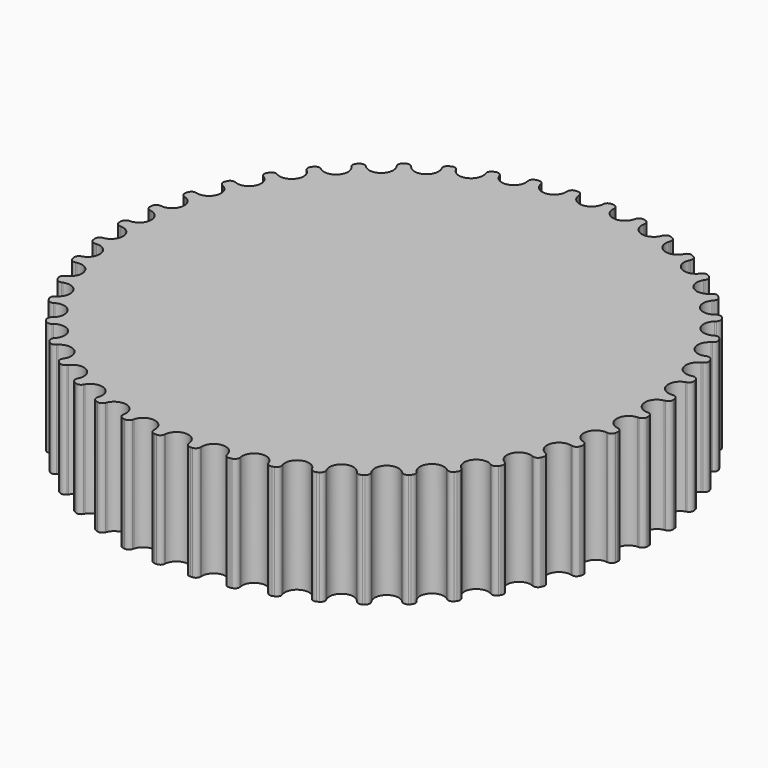
from build123d import *

# Parameters (mm, degrees)
F1_DEPTH = 25


with BuildPart() as f1:
    # F0 (on Top) → F1 (new body)
    with BuildSketch(Plane.XY):
        with BuildLine():
            ThreePointArc((-2.643572, 56.867883), (-3.006463, 57.53147), (-3.725851, 57.764966))
            ThreePointArc((-3.725851, 57.764966), (-3.950212, 57.750057), (-4.174514, 57.734276))
            ThreePointArc((-4.174514, 57.734276), (-4.855407, 57.404999), (-5.124559, 56.698179))
            Line((-5.124559, 56.698179), (-5.120517, 56.417841))
            ThreePointArc((-5.120517, 56.417841), (-7.391262, 53.775424), (-10.290717, 55.707213))
            Line((-10.290717, 55.707213), (-10.362459, 55.978246))
            ThreePointArc((-10.362459, 55.978246), (-10.812329, 56.586239), (-11.55681, 56.719603))
            ThreePointArc((-11.55681, 56.719603), (-11.777051, 56.674282), (-11.997115, 56.628107))
            ThreePointArc((-11.997115, 56.628107), (-12.626829, 56.209182), (-12.79723, 55.472295))
            Line((-12.79723, 55.472295), (-12.755053, 55.195118))
            ThreePointArc((-12.755053, 55.195118), (-14.644839, 52.268113), (-17.780333, 53.787101))
            Line((-17.780333, 53.787101), (-17.888313, 54.045841))
            ThreePointArc((-17.888313, 54.045841), (-18.41678, 54.586913), (-19.172487, 54.617662))
            ThreePointArc((-19.172487, 54.617662), (-19.384506, 54.542773), (-19.596233, 54.467062))
            ThreePointArc((-19.596233, 54.467062), (-20.163038, 53.966293), (-20.231513, 53.213067))
            Line((-20.231513, 53.213067), (-20.151986, 52.944215))
            ThreePointArc((-20.151986, 52.944215), (-21.62561, 49.787147), (-24.938735, 50.865036))
            Line((-24.938735, 50.865036), (-25.080941, 51.106663))
            ThreePointArc((-25.080941, 51.106663), (-25.678163, 51.570737), (-26.431018, 51.498296))
            ThreePointArc((-26.431018, 51.498296), (-26.630865, 51.395236), (-26.83031, 51.2914))
            ThreePointArc((-26.83031, 51.2914), (-27.323648, 50.718115), (-27.28892, 49.962581))
            Line((-27.28892, 49.962581), (-27.173525, 49.707061))
            ThreePointArc((-27.173525, 49.707061), (-28.203536, 46.37874), (-31.632576, 46.995453))
            Line((-31.632576, 46.995453), (-31.806359, 47.215465))
            ThreePointArc((-31.806359, 47.215465), (-32.461209, 47.593895), (-33.197188, 47.419615))
            ThreePointArc((-33.197188, 47.419615), (-33.38114, 47.290302), (-33.564589, 47.160275))
            ThreePointArc((-33.564589, 47.160275), (-33.97527, 46.525154), (-33.837987, 45.781386))
            Line((-33.837987, 45.781386), (-33.688874, 45.543959))
            ThreePointArc((-33.688874, 45.543959), (-34.256085, 42.106385), (-37.737162, 42.250433))
            Line((-37.737162, 42.250433), (-37.939284, 42.444733))
            ThreePointArc((-37.939284, 42.444733), (-38.639565, 42.730468), (-39.344958, 42.457597))
            ThreePointArc((-39.344958, 42.457597), (-39.509589, 42.30444), (-39.673623, 42.150644))
            ThreePointArc((-39.673623, 42.150644), (-39.993997, 41.465518), (-39.756716, 40.74737))
            Line((-39.756716, 40.74737), (-39.576662, 40.532459))
            ThreePointArc((-39.576662, 40.532459), (-39.670507, 37.049667), (-43.138776, 36.718367))
            Line((-43.138776, 36.718367), (-43.365473, 36.883335))
            ThreePointArc((-43.365473, 36.883335), (-44.098139, 37.071054), (-44.759805, 36.704673))
            ThreePointArc((-44.759805, 36.704673), (-44.902048, 36.530526), (-45.043613, 36.355827))
            ThreePointArc((-45.043613, 36.355827), (-45.267711, 35.633457), (-44.934853, 34.954308))
            Line((-44.934853, 34.954308), (-44.727212, 34.765916))
            ThreePointArc((-44.727212, 34.765916), (-44.345943, 31.302785), (-47.736796, 30.502308))
            Line((-47.736796, 30.502308), (-47.983845, 30.634871))
            ThreePointArc((-47.983845, 30.634871), (-48.735248, 30.721077), (-49.340863, 30.268011))
            ThreePointArc((-49.340863, 30.268011), (-49.458067, 30.076117), (-49.574526, 29.883769))
            ThreePointArc((-49.574526, 29.883769), (-49.698174, 29.137612), (-49.275938, 28.510113))
            Line((-49.275938, 28.510113), (-49.044579, 28.35175))
            ThreePointArc((-49.044579, 28.35175), (-48.195298, 24.97279), (-51.44557, 23.718048))
            Line((-51.44557, 23.718048), (-51.708368, 23.815736))
            ThreePointArc((-51.708368, 23.815736), (-52.464511, 23.798824), (-53.002793, 23.267514))
            ThreePointArc((-53.002793, 23.267514), (-53.092776, 23.061447), (-53.181958, 22.855033))
            ThreePointArc((-53.181958, 22.855033), (-53.202853, 22.098989), (-52.699106, 21.534829))
            Line((-52.699106, 21.534829), (-52.448338, 21.409444))
            ThreePointArc((-52.448338, 21.409444), (-51.146865, 18.1776), (-54.19601, 16.491966))
            Line((-54.19601, 16.491966), (-54.469663, 16.55296))
            ThreePointArc((-54.469663, 16.55296), (-55.21646, 16.433244), (-55.677381, 15.833586))
            ThreePointArc((-55.677381, 15.833586), (-55.738467, 15.617186), (-55.798712, 15.400551))
            ThreePointArc((-55.798712, 15.400551), (-55.716464, 14.648704), (-55.140589, 14.158392))
            Line((-55.140589, 14.158392), (-54.875083, 14.068321))
            ThreePointArc((-54.875083, 14.068321), (-53.145663, 11.043796), (-55.936881, 8.95867))
            Line((-55.936881, 8.95867), (-56.21629, 8.981833))
            ThreePointArc((-56.21629, 8.981833), (-56.93983, 8.761543), (-57.314805, 8.104709))
            ThreePointArc((-57.314805, 8.104709), (-57.345856, 7.882006), (-57.376041, 7.659185))
            ThreePointArc((-57.376041, 7.659185), (-57.192183, 6.925541), (-56.554907, 6.518211))
            Line((-56.554907, 6.518211), (-56.27961, 6.465132))
            ThreePointArc((-56.27961, 6.465132), (-54.154458, 3.704266), (-56.635754, 1.258491))
            Line((-56.635754, 1.258491), (-56.915715, 1.243392))
            ThreePointArc((-56.915715, 1.243392), (-57.60252, 0.926632), (-57.884563, 0.224856))
            ThreePointArc((-57.884563, 0.224856), (-57.885, 0), (-57.884563, -0.224856))
            ThreePointArc((-57.884563, -0.224856), (-57.60252, -0.926632), (-56.915715, -1.243392))
            Line((-56.915715, -1.243392), (-56.635754, -1.258491))
            ThreePointArc((-56.635754, -1.258491), (-54.154458, -3.704266), (-56.27961, -6.465132))
            Line((-56.27961, -6.465132), (-56.554907, -6.518211))
            ThreePointArc((-56.554907, -6.518211), (-57.192183, -6.925541), (-57.376041, -7.659185))
            ThreePointArc((-57.376041, -7.659185), (-57.345856, -7.882006), (-57.314805, -8.104709))
            ThreePointArc((-57.314805, -8.104709), (-56.93983, -8.761543), (-56.21629, -8.981833))
            Line((-56.21629, -8.981833), (-55.936881, -8.95867))
            ThreePointArc((-55.936881, -8.95867), (-53.145663, -11.043796), (-54.875083, -14.068321))
            Line((-54.875083, -14.068321), (-55.140589, -14.158392))
            ThreePointArc((-55.140589, -14.158392), (-55.716464, -14.648704), (-55.798712, -15.400551))
            ThreePointArc((-55.798712, -15.400551), (-55.738467, -15.617186), (-55.677381, -15.833586))
            ThreePointArc((-55.677381, -15.833586), (-55.21646, -16.433244), (-54.469663, -16.55296))
            Line((-54.469663, -16.55296), (-54.19601, -16.491966))
            ThreePointArc((-54.19601, -16.491966), (-51.146865, -18.1776), (-52.448338, -21.409444))
            Line((-52.448338, -21.409444), (-52.699106, -21.534829))
            ThreePointArc((-52.699106, -21.534829), (-53.202853, -22.098989), (-53.181958, -22.855033))
            ThreePointArc((-53.181958, -22.855033), (-53.092776, -23.061447), (-53.002793, -23.267514))
            ThreePointArc((-53.002793, -23.267514), (-52.464511, -23.798824), (-51.708368, -23.815736))
            Line((-51.708368, -23.815736), (-51.44557, -23.718048))
            ThreePointArc((-51.44557, -23.718048), (-48.195298, -24.97279), (-49.044579, -28.35175))
            Line((-49.044579, -28.35175), (-49.275938, -28.510113))
            ThreePointArc((-49.275938, -28.510113), (-49.698174, -29.137612), (-49.574526, -29.883769))
            ThreePointArc((-49.574526, -29.883769), (-49.458067, -30.076117), (-49.340863, -30.268011))
            ThreePointArc((-49.340863, -30.268011), (-48.735248, -30.721077), (-47.983845, -30.634871))
            Line((-47.983845, -30.634871), (-47.736796, -30.502308))
            ThreePointArc((-47.736796, -30.502308), (-44.345943, -31.302785), (-44.727212, -34.765916))
            Line((-44.727212, -34.765916), (-44.934853, -34.954308))
            ThreePointArc((-44.934853, -34.954308), (-45.267711, -35.633457), (-45.043613, -36.355827))
            ThreePointArc((-45.043613, -36.355827), (-44.902048, -36.530526), (-44.759805, -36.704673))
            ThreePointArc((-44.759805, -36.704673), (-44.098139, -37.071054), (-43.365473, -36.883335))
            Line((-43.365473, -36.883335), (-43.138776, -36.718367))
            ThreePointArc((-43.138776, -36.718367), (-39.670507, -37.049667), (-39.576662, -40.532459))
            Line((-39.576662, -40.532459), (-39.756716, -40.74737))
            ThreePointArc((-39.756716, -40.74737), (-39.993997, -41.465518), (-39.673623, -42.150644))
            ThreePointArc((-39.673623, -42.150644), (-39.509589, -42.30444), (-39.344958, -42.457597))
            ThreePointArc((-39.344958, -42.457597), (-38.639565, -42.730468), (-37.939284, -42.444733))
            Line((-37.939284, -42.444733), (-37.737162, -42.250433))
            ThreePointArc((-37.737162, -42.250433), (-34.256085, -42.106385), (-33.688874, -45.543959))
            Line((-33.688874, -45.543959), (-33.837987, -45.781386))
            ThreePointArc((-33.837987, -45.781386), (-33.97527, -46.525154), (-33.564589, -47.160275))
            ThreePointArc((-33.564589, -47.160275), (-33.38114, -47.290302), (-33.197188, -47.419615))
            ThreePointArc((-33.197188, -47.419615), (-32.461209, -47.593895), (-31.806359, -47.215465))
            Line((-31.806359, -47.215465), (-31.632576, -46.995453))
            ThreePointArc((-31.632576, -46.995453), (-28.203536, -46.37874), (-27.173525, -49.707061))
            Line((-27.173525, -49.707061), (-27.28892, -49.962581))
            ThreePointArc((-27.28892, -49.962581), (-27.323648, -50.718115), (-26.83031, -51.2914))
            ThreePointArc((-26.83031, -51.2914), (-26.630865, -51.395236), (-26.431018, -51.498296))
            ThreePointArc((-26.431018, -51.498296), (-25.678163, -51.570737), (-25.080941, -51.106663))
            Line((-25.080941, -51.106663), (-24.938735, -50.865036))
            ThreePointArc((-24.938735, -50.865036), (-21.62561, -49.787147), (-20.151986, -52.944215))
            Line((-20.151986, -52.944215), (-20.231513, -53.213067))
            ThreePointArc((-20.231513, -53.213067), (-20.163038, -53.966293), (-19.596233, -54.467062))
            ThreePointArc((-19.596233, -54.467062), (-19.384506, -54.542773), (-19.172487, -54.617662))
            ThreePointArc((-19.172487, -54.617662), (-18.41678, -54.586913), (-17.888313, -54.045841))
            Line((-17.888313, -54.045841), (-17.780333, -53.787101))
            ThreePointArc((-17.780333, -53.787101), (-14.644839, -52.268113), (-12.755053, -55.195118))
            Line((-12.755053, -55.195118), (-12.79723, -55.472295))
            ThreePointArc((-12.79723, -55.472295), (-12.626829, -56.209182), (-11.997115, -56.628107))
            ThreePointArc((-11.997115, -56.628107), (-11.777051, -56.674282), (-11.55681, -56.719603))
            ThreePointArc((-11.55681, -56.719603), (-10.812329, -56.586239), (-10.362459, -55.978246))
            Line((-10.362459, -55.978246), (-10.290717, -55.707213))
            ThreePointArc((-10.290717, -55.707213), (-7.391262, -53.775424), (-5.120517, -56.417841))
            Line((-5.120517, -56.417841), (-5.124559, -56.698179))
            ThreePointArc((-5.124559, -56.698179), (-4.855407, -57.404999), (-4.174514, -57.734276))
            ThreePointArc((-4.174514, -57.734276), (-3.950212, -57.750057), (-3.725851, -57.764966))
            ThreePointArc((-3.725851, -57.764966), (-3.006463, -57.53147), (-2.643572, -56.867883))
            Line((-2.643572, -56.867883), (-2.609404, -56.589605))
            ThreePointArc((-2.609404, -56.589605), (0, -54.281), (2.609404, -56.589605))
            Line((2.609404, -56.589605), (2.643572, -56.867883))
            ThreePointArc((2.643572, -56.867883), (3.006463, -57.53147), (3.725851, -57.764966))
            ThreePointArc((3.725851, -57.764966), (3.950212, -57.750057), (4.174514, -57.734276))
            ThreePointArc((4.174514, -57.734276), (4.855407, -57.404999), (5.124559, -56.698179))
            Line((5.124559, -56.698179), (5.120517, -56.417841))
            ThreePointArc((5.120517, -56.417841), (7.391262, -53.775424), (10.290717, -55.707213))
            Line((10.290717, -55.707213), (10.362459, -55.978246))
            ThreePointArc((10.362459, -55.978246), (10.812329, -56.586239), (11.55681, -56.719603))
            ThreePointArc((11.55681, -56.719603), (11.777051, -56.674282), (11.997115, -56.628107))
            ThreePointArc((11.997115, -56.628107), (12.626829, -56.209182), (12.79723, -55.472295))
            Line((12.79723, -55.472295), (12.755053, -55.195118))
            ThreePointArc((12.755053, -55.195118), (14.644839, -52.268113), (17.780333, -53.787101))
            Line((17.780333, -53.787101), (17.888313, -54.045841))
            ThreePointArc((17.888313, -54.045841), (18.41678, -54.586913), (19.172487, -54.617662))
            ThreePointArc((19.172487, -54.617662), (19.384506, -54.542773), (19.596233, -54.467062))
            ThreePointArc((19.596233, -54.467062), (20.163038, -53.966293), (20.231513, -53.213067))
            Line((20.231513, -53.213067), (20.151986, -52.944215))
            ThreePointArc((20.151986, -52.944215), (21.62561, -49.787147), (24.938735, -50.865036))
            Line((24.938735, -50.865036), (25.080941, -51.106663))
            ThreePointArc((25.080941, -51.106663), (25.678163, -51.570737), (26.431018, -51.498296))
            ThreePointArc((26.431018, -51.498296), (26.630865, -51.395236), (26.83031, -51.2914))
            ThreePointArc((26.83031, -51.2914), (27.323648, -50.718115), (27.28892, -49.962581))
            Line((27.28892, -49.962581), (27.173525, -49.707061))
            ThreePointArc((27.173525, -49.707061), (28.203536, -46.37874), (31.632576, -46.995453))
            Line((31.632576, -46.995453), (31.806359, -47.215465))
            ThreePointArc((31.806359, -47.215465), (32.461209, -47.593895), (33.197188, -47.419615))
            ThreePointArc((33.197188, -47.419615), (33.38114, -47.290302), (33.564589, -47.160275))
            ThreePointArc((33.564589, -47.160275), (33.97527, -46.525154), (33.837987, -45.781386))
            Line((33.837987, -45.781386), (33.688874, -45.543959))
            ThreePointArc((33.688874, -45.543959), (34.256085, -42.106385), (37.737162, -42.250433))
            Line((37.737162, -42.250433), (37.939284, -42.444733))
            ThreePointArc((37.939284, -42.444733), (38.639565, -42.730468), (39.344958, -42.457597))
            ThreePointArc((39.344958, -42.457597), (39.509589, -42.30444), (39.673623, -42.150644))
            ThreePointArc((39.673623, -42.150644), (39.993997, -41.465518), (39.756716, -40.74737))
            Line((39.756716, -40.74737), (39.576662, -40.532459))
            ThreePointArc((39.576662, -40.532459), (39.670507, -37.049667), (43.138776, -36.718367))
            Line((43.138776, -36.718367), (43.365473, -36.883335))
            ThreePointArc((43.365473, -36.883335), (44.098139, -37.071054), (44.759805, -36.704673))
            ThreePointArc((44.759805, -36.704673), (44.902048, -36.530526), (45.043613, -36.355827))
            ThreePointArc((45.043613, -36.355827), (45.267711, -35.633457), (44.934853, -34.954308))
            Line((44.934853, -34.954308), (44.727212, -34.765916))
            ThreePointArc((44.727212, -34.765916), (44.345943, -31.302785), (47.736796, -30.502308))
            Line((47.736796, -30.502308), (47.983845, -30.634871))
            ThreePointArc((47.983845, -30.634871), (48.735248, -30.721077), (49.340863, -30.268011))
            ThreePointArc((49.340863, -30.268011), (49.458067, -30.076117), (49.574526, -29.883769))
            ThreePointArc((49.574526, -29.883769), (49.698174, -29.137612), (49.275938, -28.510113))
            Line((49.275938, -28.510113), (49.044579, -28.35175))
            ThreePointArc((49.044579, -28.35175), (48.195298, -24.97279), (51.44557, -23.718048))
            Line((51.44557, -23.718048), (51.708368, -23.815736))
            ThreePointArc((51.708368, -23.815736), (52.464511, -23.798824), (53.002793, -23.267514))
            ThreePointArc((53.002793, -23.267514), (53.092776, -23.061447), (53.181958, -22.855033))
            ThreePointArc((53.181958, -22.855033), (53.202853, -22.098989), (52.699106, -21.534829))
            Line((52.699106, -21.534829), (52.448338, -21.409444))
            ThreePointArc((52.448338, -21.409444), (51.146865, -18.1776), (54.19601, -16.491966))
            Line((54.19601, -16.491966), (54.469663, -16.55296))
            ThreePointArc((54.469663, -16.55296), (55.21646, -16.433244), (55.677381, -15.833586))
            ThreePointArc((55.677381, -15.833586), (55.738467, -15.617186), (55.798712, -15.400551))
            ThreePointArc((55.798712, -15.400551), (55.716464, -14.648704), (55.140589, -14.158392))
            Line((55.140589, -14.158392), (54.875083, -14.068321))
            ThreePointArc((54.875083, -14.068321), (53.145663, -11.043796), (55.936881, -8.95867))
            Line((55.936881, -8.95867), (56.21629, -8.981833))
            ThreePointArc((56.21629, -8.981833), (56.93983, -8.761543), (57.314805, -8.104709))
            ThreePointArc((57.314805, -8.104709), (57.345856, -7.882006), (57.376041, -7.659185))
            ThreePointArc((57.376041, -7.659185), (57.192183, -6.925541), (56.554907, -6.518211))
            Line((56.554907, -6.518211), (56.27961, -6.465132))
            ThreePointArc((56.27961, -6.465132), (54.154458, -3.704266), (56.635754, -1.258491))
            Line((56.635754, -1.258491), (56.915715, -1.243392))
            ThreePointArc((56.915715, -1.243392), (57.60252, -0.926632), (57.884563, -0.224856))
            ThreePointArc((57.884563, -0.224856), (57.885, 0), (57.884563, 0.224856))
            ThreePointArc((57.884563, 0.224856), (57.60252, 0.926632), (56.915715, 1.243392))
            Line((56.915715, 1.243392), (56.635754, 1.258491))
            ThreePointArc((56.635754, 1.258491), (54.154458, 3.704266), (56.27961, 6.465132))
            Line((56.27961, 6.465132), (56.554907, 6.518211))
            ThreePointArc((56.554907, 6.518211), (57.192183, 6.925541), (57.376041, 7.659185))
            ThreePointArc((57.376041, 7.659185), (57.345856, 7.882006), (57.314805, 8.104709))
            ThreePointArc((57.314805, 8.104709), (56.93983, 8.761543), (56.21629, 8.981833))
            Line((56.21629, 8.981833), (55.936881, 8.95867))
            ThreePointArc((55.936881, 8.95867), (53.145663, 11.043796), (54.875083, 14.068321))
            Line((54.875083, 14.068321), (55.140589, 14.158392))
            ThreePointArc((55.140589, 14.158392), (55.716464, 14.648704), (55.798712, 15.400551))
            ThreePointArc((55.798712, 15.400551), (55.738467, 15.617186), (55.677381, 15.833586))
            ThreePointArc((55.677381, 15.833586), (55.21646, 16.433244), (54.469663, 16.55296))
            Line((54.469663, 16.55296), (54.19601, 16.491966))
            ThreePointArc((54.19601, 16.491966), (51.146865, 18.1776), (52.448338, 21.409444))
            Line((52.448338, 21.409444), (52.699106, 21.534829))
            ThreePointArc((52.699106, 21.534829), (53.202853, 22.098989), (53.181958, 22.855033))
            ThreePointArc((53.181958, 22.855033), (53.092776, 23.061447), (53.002793, 23.267514))
            ThreePointArc((53.002793, 23.267514), (52.464511, 23.798824), (51.708368, 23.815736))
            Line((51.708368, 23.815736), (51.44557, 23.718048))
            ThreePointArc((51.44557, 23.718048), (48.195298, 24.97279), (49.044579, 28.35175))
            Line((49.044579, 28.35175), (49.275938, 28.510113))
            ThreePointArc((49.275938, 28.510113), (49.698174, 29.137612), (49.574526, 29.883769))
            ThreePointArc((49.574526, 29.883769), (49.458067, 30.076117), (49.340863, 30.268011))
            ThreePointArc((49.340863, 30.268011), (48.735248, 30.721077), (47.983845, 30.634871))
            Line((47.983845, 30.634871), (47.736796, 30.502308))
            ThreePointArc((47.736796, 30.502308), (44.345943, 31.302785), (44.727212, 34.765916))
            Line((44.727212, 34.765916), (44.934853, 34.954308))
            ThreePointArc((44.934853, 34.954308), (45.267711, 35.633457), (45.043613, 36.355827))
            ThreePointArc((45.043613, 36.355827), (44.902048, 36.530526), (44.759805, 36.704673))
            ThreePointArc((44.759805, 36.704673), (44.098139, 37.071054), (43.365473, 36.883335))
            Line((43.365473, 36.883335), (43.138776, 36.718367))
            ThreePointArc((43.138776, 36.718367), (39.670507, 37.049667), (39.576662, 40.532459))
            Line((39.576662, 40.532459), (39.756716, 40.74737))
            ThreePointArc((39.756716, 40.74737), (39.993997, 41.465518), (39.673623, 42.150644))
            ThreePointArc((39.673623, 42.150644), (39.509589, 42.30444), (39.344958, 42.457597))
            ThreePointArc((39.344958, 42.457597), (38.639565, 42.730468), (37.939284, 42.444733))
            Line((37.939284, 42.444733), (37.737162, 42.250433))
            ThreePointArc((37.737162, 42.250433), (34.256085, 42.106385), (33.688874, 45.543959))
            Line((33.688874, 45.543959), (33.837987, 45.781386))
            ThreePointArc((33.837987, 45.781386), (33.97527, 46.525154), (33.564589, 47.160275))
            ThreePointArc((33.564589, 47.160275), (33.38114, 47.290302), (33.197188, 47.419615))
            ThreePointArc((33.197188, 47.419615), (32.461209, 47.593895), (31.806359, 47.215465))
            Line((31.806359, 47.215465), (31.632576, 46.995453))
            ThreePointArc((31.632576, 46.995453), (28.203536, 46.37874), (27.173525, 49.707061))
            Line((27.173525, 49.707061), (27.28892, 49.962581))
            ThreePointArc((27.28892, 49.962581), (27.323648, 50.718115), (26.83031, 51.2914))
            ThreePointArc((26.83031, 51.2914), (26.630865, 51.395236), (26.431018, 51.498296))
            ThreePointArc((26.431018, 51.498296), (25.678163, 51.570737), (25.080941, 51.106663))
            Line((25.080941, 51.106663), (24.938735, 50.865036))
            ThreePointArc((24.938735, 50.865036), (21.62561, 49.787147), (20.151986, 52.944215))
            Line((20.151986, 52.944215), (20.231513, 53.213067))
            ThreePointArc((20.231513, 53.213067), (20.163038, 53.966293), (19.596233, 54.467062))
            ThreePointArc((19.596233, 54.467062), (19.384506, 54.542773), (19.172487, 54.617662))
            ThreePointArc((19.172487, 54.617662), (18.41678, 54.586913), (17.888313, 54.045841))
            Line((17.888313, 54.045841), (17.780333, 53.787101))
            ThreePointArc((17.780333, 53.787101), (14.644839, 52.268113), (12.755053, 55.195118))
            Line((12.755053, 55.195118), (12.79723, 55.472295))
            ThreePointArc((12.79723, 55.472295), (12.626829, 56.209182), (11.997115, 56.628107))
            ThreePointArc((11.997115, 56.628107), (11.777051, 56.674282), (11.55681, 56.719603))
            ThreePointArc((11.55681, 56.719603), (10.812329, 56.586239), (10.362459, 55.978246))
            Line((10.362459, 55.978246), (10.290717, 55.707213))
            ThreePointArc((10.290717, 55.707213), (7.391262, 53.775424), (5.120517, 56.417841))
            Line((5.120517, 56.417841), (5.124559, 56.698179))
            ThreePointArc((5.124559, 56.698179), (4.855407, 57.404999), (4.174514, 57.734276))
            ThreePointArc((4.174514, 57.734276), (3.950212, 57.750057), (3.725851, 57.764966))
            ThreePointArc((3.725851, 57.764966), (3.006463, 57.53147), (2.643572, 56.867883))
            Line((2.643572, 56.867883), (2.609404, 56.589605))
            ThreePointArc((2.609404, 56.589605), (0, 54.281), (-2.609404, 56.589605))
            Line((-2.609404, 56.589605), (-2.643572, 56.867883))
        make_face()
    extrude(amount=F1_DEPTH)


solid = f1.part
